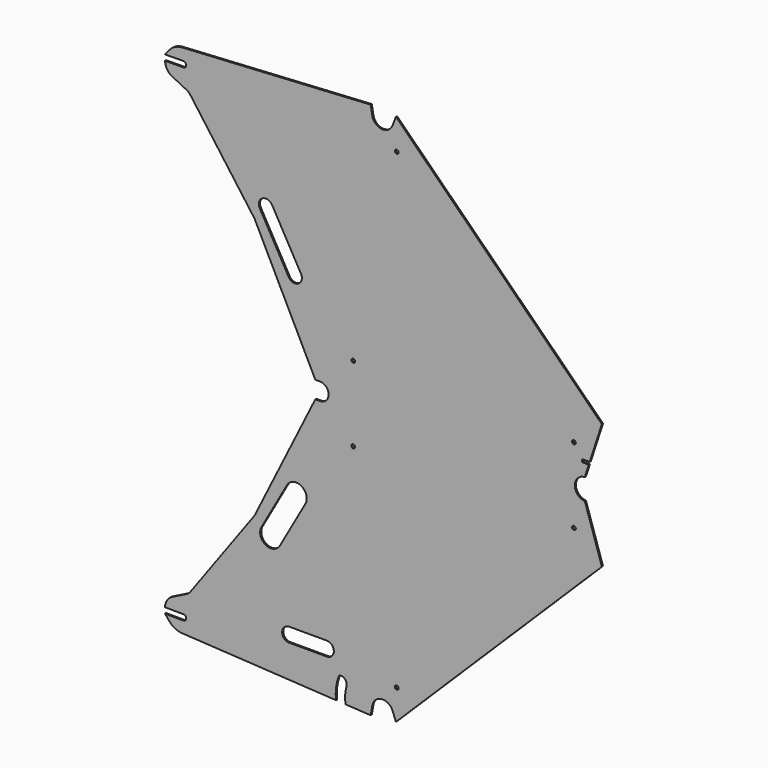
from build123d import *

# Parameters (mm, degrees)
F0_R     = 4
F1_DEPTH = 3


with BuildPart() as f1:
    # F0 (on Front) → F1 (new body)
    with BuildSketch(Plane.XZ):
        with BuildLine():
            ThreePointArc((-42.428788, 22.197763), (-22.393428, 40.636528), (0.736568, 26.269656))
            Line((0.736568, 26.269656), (7.82161, 7.734496))
            Line((7.82161, 7.734496), (445.831745, 440.866256))
            Line((445.831745, 440.866256), (409.571118, 551.809463))
            ThreePointArc((409.571118, 551.809463), (403.393924, 553.012383), (397.791506, 555.879027))
            Line((397.791506, 555.879027), (-153.711431, 555.879027))
            Line((-153.711431, 555.879027), (-163.711431, 555.879027))
            Line((-163.711431, 555.879027), (-176.433934, 530.299822))
            Line((-176.433934, 530.299822), (-292.672837, 296.595913))
            Line((-292.672837, 296.595913), (-429.805557, 108.635613))
            ThreePointArc((-429.805557, 108.635613), (-433.055197, 105.145969), (-437.038546, 102.524765))
            Line((-437.038546, 102.524765), (-467.979575, 87.098137))
            ThreePointArc((-467.979575, 87.098137), (-479.031049, 77.063624), (-483.216559, 62.73505))
            Line((-483.216559, 62.73505), (-444.218322, 62.364245))
            ThreePointArc((-444.218322, 62.364245), (-439.992581, 60.566627), (-438.27564, 56.307469))
            ThreePointArc((-438.27564, 56.307469), (-440.073258, 52.081729), (-444.332415, 50.364787))
            Line((-444.332415, 50.364787), (-483.330653, 50.735592))
            Line((-483.330653, 50.735592), (-473.742625, 39.200006))
            ThreePointArc((-473.742625, 39.200006), (-462.016917, 29.862605), (-447.542263, 25.968544))
            Line((-447.542263, 25.968544), (-119.640526, 6.942116))
            ThreePointArc((-119.640526, 6.942116), (-119.539343, 30.38703), (-113.982147, 53.164032))
            ThreePointArc((-113.982147, 53.164032), (-112.028876, 55.605369), (-109.00742, 56.409233))
            Line((-109.00742, 56.409233), (-91.138541, 55.372396))
            ThreePointArc((-91.138541, 55.372396), (-94.609764, 47.818656), (-97.278364, 39.945477))
            ThreePointArc((-97.278364, 39.945477), (-100.140537, 22.963258), (-99.30184, 5.761968))
            Line((-99.30184, 5.761968), (-45.922757, 2.664658))
            Line((-45.922757, 2.664658), (-42.428788, 22.197763))
        make_face()
        with BuildLine():
            ThreePointArc((-219.185589, 82.205842), (-234.185589, 97.205842), (-219.185589, 112.205842))
            Line((-219.185589, 112.205842), (-139.185589, 112.205842))
            ThreePointArc((-139.185589, 112.205842), (-124.185589, 97.205842), (-139.185589, 82.205842))
            Line((-139.185589, 82.205842), (-219.185589, 82.205842))
        make_face(mode=Mode.SUBTRACT)
        with BuildLine():
            ThreePointArc((-238.884885, 257.620199), (-269.539195, 249.087128), (-278.072266, 279.741438))
            Line((-278.072266, 279.741438), (-223.998126, 375.532812))
            ThreePointArc((-223.998126, 375.532812), (-193.343817, 384.065883), (-184.810746, 353.411573))
            Line((-184.810746, 353.411573), (-238.884885, 257.620199))
        make_face(mode=Mode.SUBTRACT)
        with Locations((-83.001788, 494.079027)):
            Circle(F0_R, mode=Mode.SUBTRACT)
        with Locations((9.507399, 72.687717)):
            Circle(F0_R, mode=Mode.SUBTRACT)
        with Locations((386.357424, 494.079027)):
            Circle(F0_R, mode=Mode.SUBTRACT)
        with BuildLine():
            ThreePointArc((-109.00742, 56.409233), (-99.197738, 50.987949), (-97.278364, 39.945477))
            ThreePointArc((-97.278364, 39.945477), (-94.609764, 47.818656), (-91.138541, 55.372396))
            Line((-91.138541, 55.372396), (-109.00742, 56.409233))
        make_face()
        with BuildLine():
            Line((-153.711431, 555.879027), (397.791506, 555.879027))
            ThreePointArc((397.791506, 555.879027), (388.241023, 574.279027), (397.791506, 592.679027))
            Line((397.791506, 592.679027), (-153.711431, 592.679027))
            ThreePointArc((-153.711431, 592.679027), (-135.311431, 574.279027), (-153.711431, 555.879027))
        make_face()
        with BuildLine():
            Line((-153.711431, 592.679027), (397.791506, 592.679027))
            ThreePointArc((397.791506, 592.679027), (403.393924, 595.545671), (409.571118, 596.748591))
            Line((409.571118, 596.748591), (418.046209, 622.679027))
            Line((418.046209, 622.679027), (406.046209, 622.679027))
            ThreePointArc((406.046209, 622.679027), (403.924889, 623.557707), (403.046209, 625.679027))
            ThreePointArc((403.046209, 625.679027), (403.924889, 627.800347), (406.046209, 628.679027))
            Line((406.046209, 628.679027), (420.007247, 628.679027))
            Line((420.007247, 628.679027), (445.831745, 707.691799))
            Line((445.831745, 707.691799), (7.82161, 1140.823559))
            Line((7.82161, 1140.823559), (0.736568, 1122.288398))
            ThreePointArc((0.736568, 1122.288398), (-22.393428, 1107.921526), (-42.428788, 1126.360291))
            Line((-42.428788, 1126.360291), (-45.922757, 1145.893396))
            Line((-45.922757, 1145.893396), (-447.542263, 1122.58951))
            ThreePointArc((-447.542263, 1122.58951), (-462.016917, 1118.695449), (-473.742625, 1109.358048))
            Line((-473.742625, 1109.358048), (-483.330653, 1097.822462))
            Line((-483.330653, 1097.822462), (-444.332415, 1098.193267))
            ThreePointArc((-444.332415, 1098.193267), (-440.073258, 1096.476326), (-438.27564, 1092.250585))
            ThreePointArc((-438.27564, 1092.250585), (-439.992581, 1087.991428), (-444.218322, 1086.19381))
            Line((-444.218322, 1086.19381), (-483.216559, 1085.823005))
            ThreePointArc((-483.216559, 1085.823005), (-479.031049, 1071.494431), (-467.979575, 1061.459917))
            Line((-467.979575, 1061.459917), (-437.038546, 1046.033289))
            ThreePointArc((-437.038546, 1046.033289), (-433.055197, 1043.412085), (-429.805557, 1039.922441))
            Line((-429.805557, 1039.922441), (-292.672837, 851.962142))
            Line((-292.672837, 851.962142), (-178.632735, 622.679027))
            Line((-178.632735, 622.679027), (-176.433934, 618.258232))
            Line((-176.433934, 618.258232), (-163.711431, 592.679027))
            Line((-163.711431, 592.679027), (-153.711431, 592.679027))
        make_face()
        with Locations((-83.001788, 654.479027)):
            Circle(F0_R, mode=Mode.SUBTRACT)
        with BuildLine():
            ThreePointArc((-281.759139, 875.347847), (-276.070425, 895.784053), (-255.634219, 890.095339))
            Line((-255.634219, 890.095339), (-194.186333, 781.241505))
            ThreePointArc((-194.186333, 781.241505), (-199.875047, 760.805298), (-220.311253, 766.494012))
            Line((-220.311253, 766.494012), (-281.759139, 875.347847))
        make_face(mode=Mode.SUBTRACT)
        with Locations((386.357424, 654.479027)):
            Circle(F0_R, mode=Mode.SUBTRACT)
        with Locations((9.507399, 1075.870338)):
            Circle(F0_R, mode=Mode.SUBTRACT)
    extrude(amount=F1_DEPTH)


solid = f1.part
